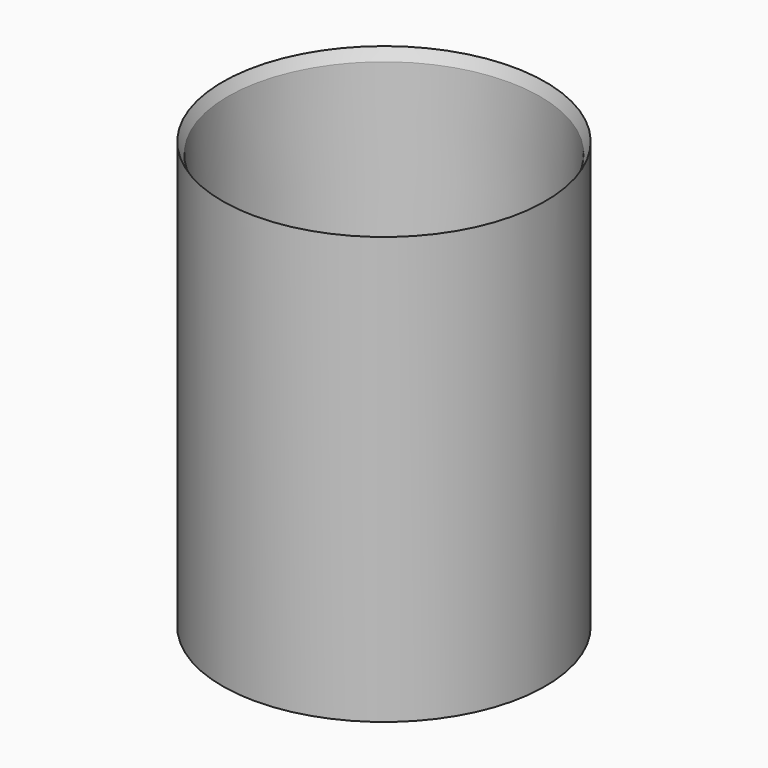
from build123d import *


with BuildPart() as f1:
    # F0 (on Right) → F1 (revolve)
    with BuildSketch(Plane.YZ):
        Polygon((-29.25, 77.939976), (-30.25, 80), (-30.25, 0), (0, 0), (0, 3), (-26.25, 3), align=None)
    revolve(axis=Axis((0, 0, 1.5), (0, 0, 1)))


with BuildPart() as f2_1:
    # F2: copy of F1
    add(f1.part.moved(Location((0, -62, 0))))


with BuildPart() as f4:
    # F0 (on Right) → F4 (revolve)
    with BuildSketch(Plane.YZ):
        Polygon((-29.25, 77.939976), (-30.25, 80), (-30.25, 0), (0, 0), (0, 3), (-26.25, 3), align=None)
    revolve(axis=Axis((0, 0, 1.5), (0, 0, 1)))


solid = Compound([f1.part, f4.part])
